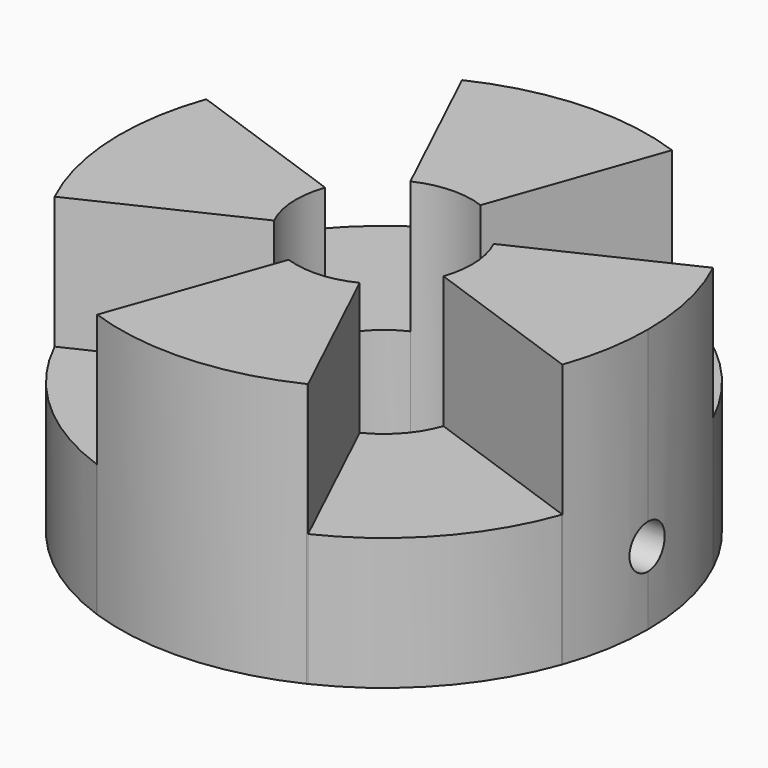
from build123d import *

# Parameters (mm, degrees)
F1_DEPTH = 15
F3_DEPTH = 30
F2_R     = 2.5
F4_DEPTH = 34


with BuildPart() as f1:
    # F0 (on Top) → F1 (new body)
    with BuildSketch(Plane.XY):
        with BuildLine():
            ThreePointArc((9.032456, 4.29124), (9.755116, 2.199482), (10, 0))
            ThreePointArc((10, 0), (9.855601, -1.693258), (9.426575, -3.337616))
            Line((9.426575, -3.337616), (28.279726, -10.012847))
            ThreePointArc((28.279726, -10.012847), (29.566804, -5.079775), (30, 0))
            ThreePointArc((30, 0), (29.26777, 6.587689), (27.106824, 12.853797))
            Line((27.106824, 12.853797), (27.064093, 12.85387))
            Line((27.064093, 12.85387), (27.055619, 12.853885))
            Line((27.055619, 12.853885), (9.032456, 4.29124))
        make_face()
        with BuildLine():
            ThreePointArc((3.46339, 9.381094), (6.746347, 7.381518), (9.032456, 4.29124))
            Line((9.032456, 4.29124), (27.055619, 12.853885))
            Line((27.055619, 12.853885), (27.07179, 12.861568))
            Line((27.07179, 12.861568), (27.093042, 12.88282))
            ThreePointArc((27.093042, 12.88282), (20.136379, 22.237946), (10.13882, 28.234807))
            Line((10.13882, 28.234807), (3.46339, 9.381094))
        make_face()
        with BuildLine():
            Line((28.279726, -10.012847), (9.426575, -3.337616))
            ThreePointArc((9.426575, -3.337616), (7.472968, -6.644904), (4.416744, -8.971754))
            Line((4.416744, -8.971754), (12.999502, -27.037251))
            ThreePointArc((12.999502, -27.037251), (22.302768, -20.064559), (28.256426, -10.078412))
            Line((28.256426, -10.078412), (28.226262, -10.048145))
            Line((28.226262, -10.048145), (28.267203, -10.048145))
            ThreePointArc((28.267203, -10.048145), (28.27347, -10.030498), (28.279726, -10.012847))
        make_face()
        with BuildLine():
            ThreePointArc((-4.24614, 9.053745), (-0.424222, 9.990998), (3.46339, 9.381094))
            Line((3.46339, 9.381094), (10.13882, 28.234807))
            ThreePointArc((10.13882, 28.234807), (10.108621, 28.245633), (10.078412, 28.256426))
            Line((10.078412, 28.256426), (10.048145, 28.226262))
            Line((10.048145, 28.226262), (10.048145, 28.267203))
            ThreePointArc((10.048145, 28.267203), (-1.50418, 29.962267), (-12.828655, 27.118732))
            Line((-12.828655, 27.118732), (-4.24614, 9.053745))
        make_face()
        with BuildLine():
            Line((12.999502, -27.037251), (4.416744, -8.971754))
            ThreePointArc((4.416744, -8.971754), (0.617235, -9.980933), (-3.277666, -9.447587))
            Line((-3.277666, -9.447587), (-9.952942, -28.300865))
            ThreePointArc((-9.952942, -28.300865), (1.568494, -29.958969), (12.853797, -27.106824))
            Line((12.853797, -27.106824), (12.85387, -27.064093))
            Line((12.85387, -27.064093), (12.88282, -27.093042))
            ThreePointArc((12.88282, -27.093042), (12.941191, -27.06521), (12.999502, -27.037251))
        make_face()
        with BuildLine():
            ThreePointArc((-9.402907, 3.403723), (-7.386123, 6.741305), (-4.24614, 9.053745))
            Line((-4.24614, 9.053745), (-12.828655, 27.118732))
            ThreePointArc((-12.828655, 27.118732), (-22.239146, 20.135053), (-28.256213, 10.079009))
            Line((-28.256213, 10.079009), (-9.402907, 3.403723))
        make_face()
        with BuildLine():
            Line((27.07179, 12.861568), (27.064093, 12.85387))
            Line((27.064093, 12.85387), (27.106824, 12.853797))
            ThreePointArc((27.106824, 12.853797), (27.102098, 12.863759), (27.097368, 12.873719))
            Line((27.097368, 12.873719), (27.07179, 12.861568))
        make_face()
        with BuildLine():
            Line((27.093042, 12.88282), (27.07179, 12.861568))
            Line((27.07179, 12.861568), (27.097368, 12.873719))
            ThreePointArc((27.097368, 12.873719), (27.095206, 12.87827), (27.093042, 12.88282))
        make_face()
        with BuildLine():
            Line((-9.952942, -28.300865), (-3.277666, -9.447587))
            ThreePointArc((-3.277666, -9.447587), (-6.639802, -7.477502), (-8.993671, -4.371943))
            Line((-8.993671, -4.371943), (-27.058824, -12.954537))
            ThreePointArc((-27.058824, -12.954537), (-20.083091, -22.286083), (-10.078412, -28.256426))
            Line((-10.078412, -28.256426), (-10.048145, -28.226262))
            Line((-10.048145, -28.226262), (-10.048145, -28.267203))
            ThreePointArc((-10.048145, -28.267203), (-10.000557, -28.284074), (-9.952942, -28.300865))
        make_face()
        with BuildLine():
            ThreePointArc((28.256426, -10.078412), (28.261819, -10.06328), (28.267203, -10.048145))
            Line((28.267203, -10.048145), (28.226262, -10.048145))
            Line((28.226262, -10.048145), (28.256426, -10.078412))
        make_face()
        with BuildLine():
            ThreePointArc((-8.993671, -4.371943), (-9.986179, -0.525577), (-9.402907, 3.403723))
            Line((-9.402907, 3.403723), (-28.256213, 10.079009))
            ThreePointArc((-28.256213, 10.079009), (-28.25632, 10.07871), (-28.256426, 10.078412))
            Line((-28.256426, 10.078412), (-28.226262, 10.048145))
            Line((-28.226262, 10.048145), (-28.267203, 10.048145))
            ThreePointArc((-28.267203, 10.048145), (-29.961566, -1.518072), (-27.106824, -12.853797))
            Line((-27.106824, -12.853797), (-27.064093, -12.85387))
            Line((-27.064093, -12.85387), (-27.093042, -12.88282))
            ThreePointArc((-27.093042, -12.88282), (-27.075957, -12.91869), (-27.058824, -12.954537))
            Line((-27.058824, -12.954537), (-8.993671, -4.371943))
        make_face()
        with BuildLine():
            Line((10.048145, 28.226262), (10.078412, 28.256426))
            ThreePointArc((10.078412, 28.256426), (10.06328, 28.261819), (10.048145, 28.267203))
            Line((10.048145, 28.267203), (10.048145, 28.226262))
        make_face()
        with BuildLine():
            ThreePointArc((12.853797, -27.106824), (12.86831, -27.099937), (12.88282, -27.093042))
            Line((12.88282, -27.093042), (12.85387, -27.064093))
            Line((12.85387, -27.064093), (12.853797, -27.106824))
        make_face()
        with BuildLine():
            ThreePointArc((-10.078412, -28.256426), (-10.06328, -28.261819), (-10.048145, -28.267203))
            Line((-10.048145, -28.267203), (-10.048145, -28.226262))
            Line((-10.048145, -28.226262), (-10.078412, -28.256426))
        make_face()
        with BuildLine():
            Line((-28.226262, 10.048145), (-28.256426, 10.078412))
            ThreePointArc((-28.256426, 10.078412), (-28.261819, 10.06328), (-28.267203, 10.048145))
            Line((-28.267203, 10.048145), (-28.226262, 10.048145))
        make_face()
        with BuildLine():
            ThreePointArc((-27.106824, -12.853797), (-27.099937, -12.86831), (-27.093042, -12.88282))
            Line((-27.093042, -12.88282), (-27.064093, -12.85387))
            Line((-27.064093, -12.85387), (-27.106824, -12.853797))
        make_face()
    extrude(amount=F1_DEPTH)

    # F0 (on Top) → F3 (join)
    with BuildSketch(Plane.XY):
        with BuildLine():
            ThreePointArc((-4.24614, 9.053745), (-0.424222, 9.990998), (3.46339, 9.381094))
            Line((3.46339, 9.381094), (10.13882, 28.234807))
            ThreePointArc((10.13882, 28.234807), (10.108621, 28.245633), (10.078412, 28.256426))
            Line((10.078412, 28.256426), (10.048145, 28.226262))
            Line((10.048145, 28.226262), (10.048145, 28.267203))
            ThreePointArc((10.048145, 28.267203), (-1.50418, 29.962267), (-12.828655, 27.118732))
            Line((-12.828655, 27.118732), (-4.24614, 9.053745))
        make_face()
        with BuildLine():
            Line((12.999502, -27.037251), (4.416744, -8.971754))
            ThreePointArc((4.416744, -8.971754), (0.617235, -9.980933), (-3.277666, -9.447587))
            Line((-3.277666, -9.447587), (-9.952942, -28.300865))
            ThreePointArc((-9.952942, -28.300865), (1.568494, -29.958969), (12.853797, -27.106824))
            Line((12.853797, -27.106824), (12.85387, -27.064093))
            Line((12.85387, -27.064093), (12.88282, -27.093042))
            ThreePointArc((12.88282, -27.093042), (12.941191, -27.06521), (12.999502, -27.037251))
        make_face()
        with BuildLine():
            ThreePointArc((-8.993671, -4.371943), (-9.986179, -0.525577), (-9.402907, 3.403723))
            Line((-9.402907, 3.403723), (-28.256213, 10.079009))
            ThreePointArc((-28.256213, 10.079009), (-28.25632, 10.07871), (-28.256426, 10.078412))
            Line((-28.256426, 10.078412), (-28.226262, 10.048145))
            Line((-28.226262, 10.048145), (-28.267203, 10.048145))
            ThreePointArc((-28.267203, 10.048145), (-29.961566, -1.518072), (-27.106824, -12.853797))
            Line((-27.106824, -12.853797), (-27.064093, -12.85387))
            Line((-27.064093, -12.85387), (-27.093042, -12.88282))
            ThreePointArc((-27.093042, -12.88282), (-27.075957, -12.91869), (-27.058824, -12.954537))
            Line((-27.058824, -12.954537), (-8.993671, -4.371943))
        make_face()
        with BuildLine():
            ThreePointArc((9.032456, 4.29124), (9.755116, 2.199482), (10, 0))
            ThreePointArc((10, 0), (9.855601, -1.693258), (9.426575, -3.337616))
            Line((9.426575, -3.337616), (28.279726, -10.012847))
            ThreePointArc((28.279726, -10.012847), (29.566804, -5.079775), (30, 0))
            ThreePointArc((30, 0), (29.26777, 6.587689), (27.106824, 12.853797))
            Line((27.106824, 12.853797), (27.064093, 12.85387))
            Line((27.064093, 12.85387), (27.055619, 12.853885))
            Line((27.055619, 12.853885), (9.032456, 4.29124))
        make_face()
    extrude(amount=F3_DEPTH)

    # F2 (on Right) → F4 (cut)
    with BuildSketch(Plane.YZ):
        with Locations((0, 8.289474)):
            Circle(F2_R)
    extrude(amount=F4_DEPTH, mode=Mode.SUBTRACT)


solid = f1.part
